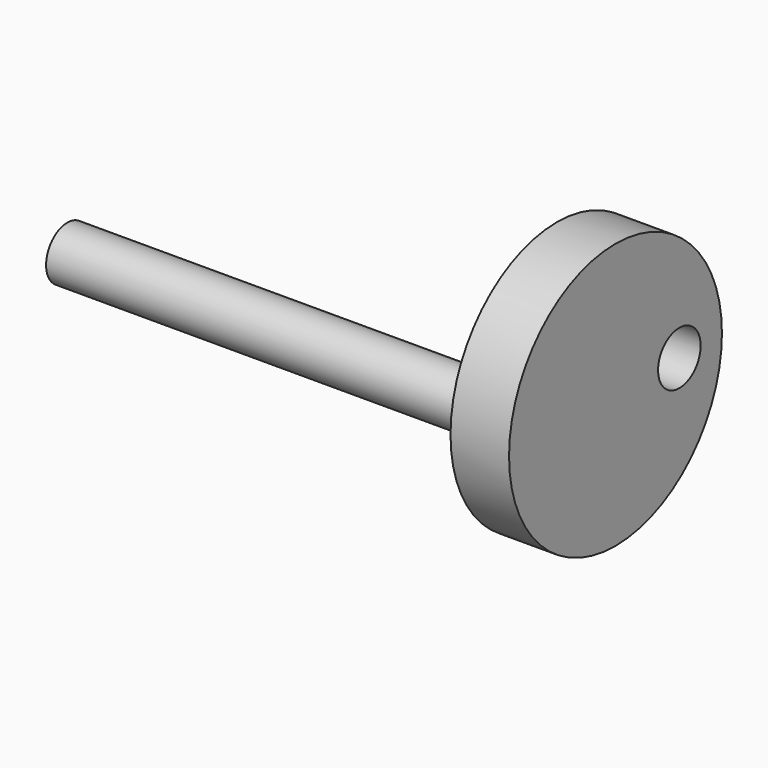
from build123d import *

# Parameters (mm, degrees)
F0_W     = 101.6
F0_H     = 6.35
F3_DEPTH = 13.97
F4_DEPTH = 2.794


with BuildPart() as f1:
    # F0 (on Front) → F1 (revolve)
    with BuildSketch(Plane.XZ):
        with Locations((0, -3.175)):
            Rectangle(F0_W, F0_H)
    revolve(axis=Axis((-107.179771, 0, 0), (-1, 0, 0)))

    # F2 (on face) → F3 (join)
    with BuildSketch(Plane.YZ.offset(50.8)):
        with BuildLine():
            ThreePointArc((31.75, 0), (38.1, 6.35), (44.45, 0))
            Line((44.45, 0), (50.8, 0))
            ThreePointArc((50.8, 0), (19.05, 31.75), (-12.7, 0))
            Line((-12.7, 0), (31.75, 0))
        make_face()
        with BuildLine():
            Line((50.8, 0), (44.45, 0))
            ThreePointArc((44.45, 0), (38.1, -6.35), (31.75, 0))
            Line((31.75, 0), (-12.7, 0))
            ThreePointArc((-12.7, 0), (19.05, -31.75), (50.8, 0))
        make_face()
    extrude(amount=F3_DEPTH)


with BuildPart() as f4:
    # F2 (on face) → F4 (new body)
    with BuildSketch(Plane.YZ.offset(50.8)):
        with BuildLine():
            Line((50.8, 0), (44.45, 0))
            ThreePointArc((44.45, 0), (38.1, -6.35), (31.75, 0))
            Line((31.75, 0), (6.35, 0))
            ThreePointArc((6.35, 0), (0, -6.35), (-6.35, 0))
            Line((-6.35, 0), (-12.7, 0))
            ThreePointArc((-12.7, 0), (19.05, -31.75), (50.8, 0))
        make_face()
        with BuildLine():
            ThreePointArc((31.75, 0), (38.1, 6.35), (44.45, 0))
            Line((44.45, 0), (50.8, 0))
            ThreePointArc((50.8, 0), (19.05, 31.75), (-12.7, 0))
            Line((-12.7, 0), (-6.35, 0))
            ThreePointArc((-6.35, 0), (0, 6.35), (6.35, 0))
            Line((6.35, 0), (31.75, 0))
        make_face()
    extrude(amount=F4_DEPTH)


solid = f1.part
